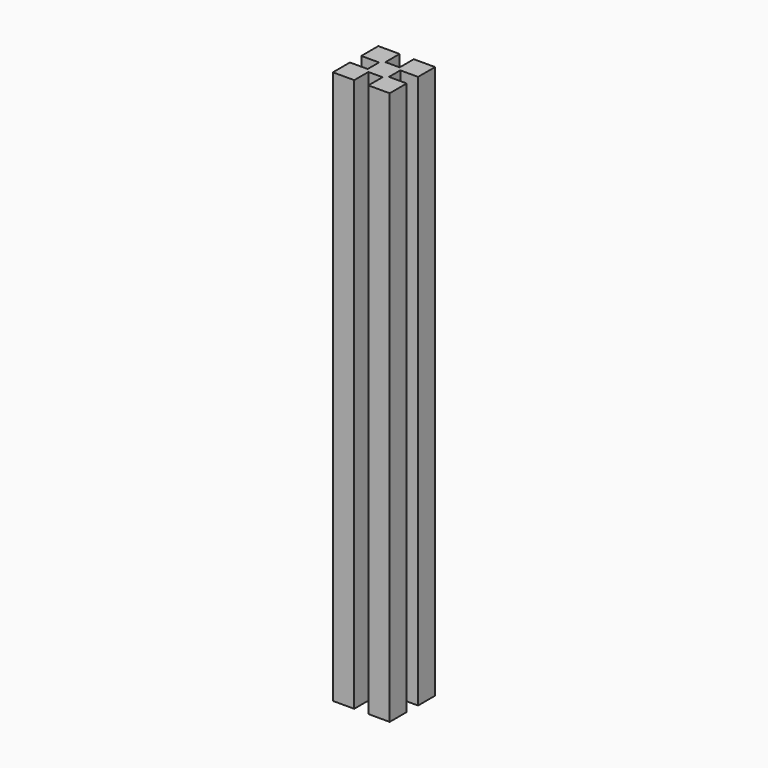
from build123d import *

# Parameters (mm, degrees)
PAD_DEPTH = 390


with BuildPart() as part:
    # Sketch → Pad (new body)
    with BuildSketch(Plane.XY):
        Polygon((-20, -20), (-20, -5), (-7.5, -5), (-7.5, 5), (-20, 5), (-20, 20), (-5, 20), (-5, 7.5), (5, 7.5), (5, 20), (20, 20), (20, 5), (7.5, 5), (7.5, -5), (20, -5), (20, -20), (5, -20), (5, -7.5), (-5, -7.5), (-5, -20), align=None)
    extrude(amount=PAD_DEPTH)


solid = part.part
